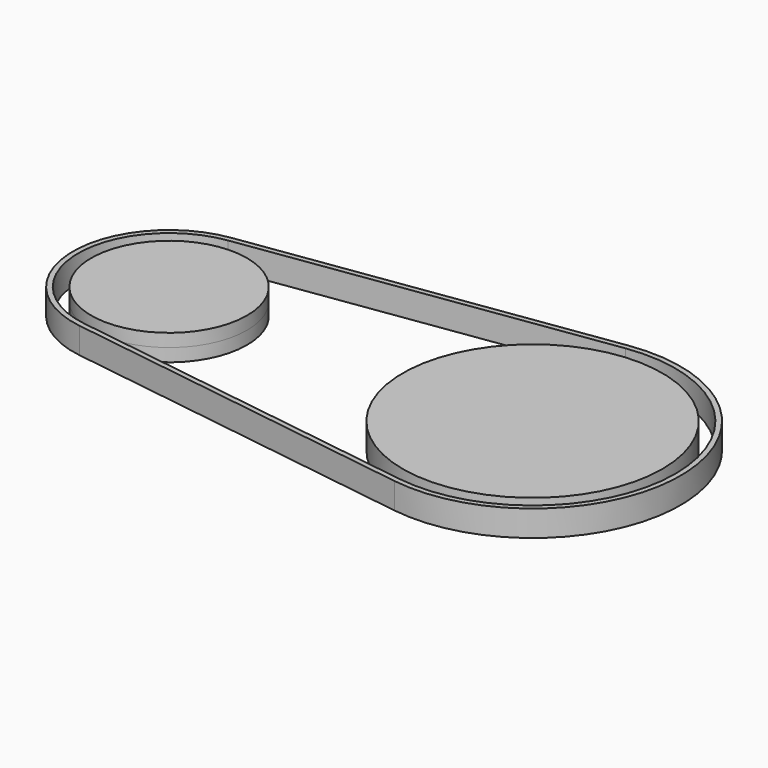
from build123d import *

# Parameters (mm, degrees)
F0_R     = 30
F0_R_2   = 50
F1_DEPTH = 5


with BuildPart() as f1:
    # F0 (on Top) → F1 (new body, symmetric)
    with BuildSketch(Plane.XY):
        with BuildLine():
            Line((57.56721, 56.415369), (-79.575647, 36.620503))
            ThreePointArc((-79.575647, 36.620503), (-111.289933, 0), (-79.575647, -36.620503))
            Line((-79.575647, -36.620503), (57.56721, -56.415369))
            ThreePointArc((57.56721, -56.415369), (122.710067, 0), (57.56721, 56.415369))
        make_face()
        with BuildLine():
            ThreePointArc((-79.289933, -34.641016), (-109.289933, 0), (-79.289933, 34.641016))
            Line((-79.289933, 34.641016), (57.852924, 54.435883))
            ThreePointArc((57.852924, 54.435883), (120.710067, 0), (57.852924, -54.435883))
            Line((57.852924, -54.435883), (-79.289933, -34.641016))
        make_face(mode=Mode.SUBTRACT)
        with Locations((-74.289933, 0)):
            Circle(F0_R)
        with Locations((65.710067, 0)):
            Circle(F0_R_2)
    extrude(amount=F1_DEPTH, both=True)


solid = f1.part
